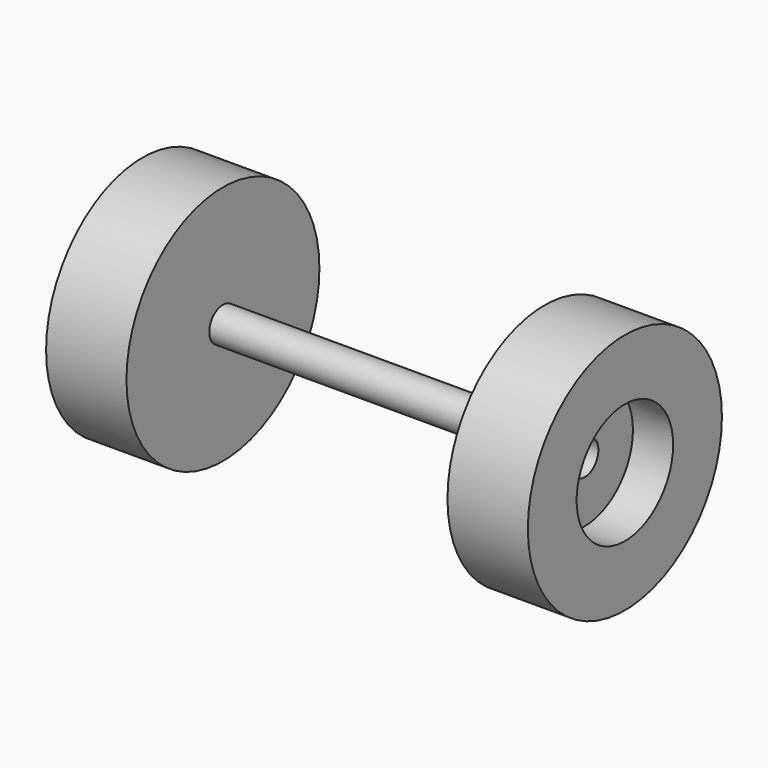
from build123d import *

# Parameters (mm, degrees)
F0_R      = 38.1
F1_DEPTH  = 25.4
F2_R      = 5.4044200522
F3_DEPTH  = 101.6
F4_R      = 38.32155554
F4_R_2    = 5.4044200522
F5_DEPTH  = 25.4
F6_R      = 19.05
F7_DEPTH  = 12.7
F8_R      = 19.05
F8_R_2    = 5.4044200522
F9_DEPTH  = 12.7
F11_R     = 2.8477624551
F11_R_2   = 2.8477650893
F11_R_3   = 3.1838963947
F11_R_4   = 3.0621740495
F11_R_5   = 3.2234527355
F11_R_6   = 3.630200632
F11_R_7   = 3.5239234567
F11_R_8   = 3.2234498266
F12_DEPTH = 12.7


with BuildPart() as f1:
    # F0 (on Right) → F1 (new body)
    with BuildSketch(Plane.YZ):
        with Locations((-57.6349385083, 52.2463060915)):
            Circle(F0_R)
    extrude(amount=F1_DEPTH)

    # F2 (on face) → F3 (join)
    with BuildSketch(Plane.YZ.offset(25.4)):
        with Locations((-57.6349385083, 52.2463060915)):
            Circle(F2_R)
    extrude(amount=F3_DEPTH)

    # F6 (on face) → F7 (cut)
    with BuildSketch(Plane(origin=(0, 0, 0), x_dir=(0, -1, 0), z_dir=(-1, 0, 0))):
        with Locations((57.6349385083, 52.2463060915)):
            Circle(F6_R)
    extrude(amount=-F7_DEPTH, mode=Mode.SUBTRACT)

    # F11 (on face) → F12 (cut)
    with BuildSketch(Plane(origin=(0, 0, 0), x_dir=(0, -1, 0), z_dir=(-1, 0, 0))):
        with Locations((62.1656402946, 37.3954698443)):
            Circle(F11_R)
        with Locations((51.5938587487, 37.3954698443)):
            Circle(F11_R_2)
        with Locations((44.5460006595, 45.953579247)):
            Circle(F11_R_3)
        with Locations((44.5460006595, 56.0219436884)):
            Circle(F11_R_4)
        with Locations((52.0972758532, 63.0697980523)):
            Circle(F11_R_5)
        with Locations((62.1656402946, 63.5732188821)):
            Circle(F11_R_6)
        with Locations((70.2203288674, 56.5253607929)):
            Circle(F11_R_7)
        with Locations((70.2203288674, 44.9467413127)):
            Circle(F11_R_8)
    extrude(amount=-F12_DEPTH, mode=Mode.SUBTRACT)


with BuildPart() as f5:
    # F4 (on face) → F5 (new body)
    with BuildSketch(Plane.YZ.offset(127)):
        with Locations((-57.6349385083, 52.2463060915)):
            Circle(F4_R)
        with Locations((-57.6349385083, 52.2463060915)):
            Circle(F4_R_2, mode=Mode.SUBTRACT)
    extrude(amount=F5_DEPTH)

    # F8 (on face) → F9 (cut)
    with BuildSketch(Plane.YZ.offset(152.4)):
        with Locations((-57.6349385083, 52.2463060915)):
            Circle(F8_R)
        with Locations((-57.6349385083, 52.2463060915)):
            Circle(F8_R_2, mode=Mode.SUBTRACT)
    extrude(amount=-F9_DEPTH, mode=Mode.SUBTRACT)


solid = Compound([f1.part, f5.part])
